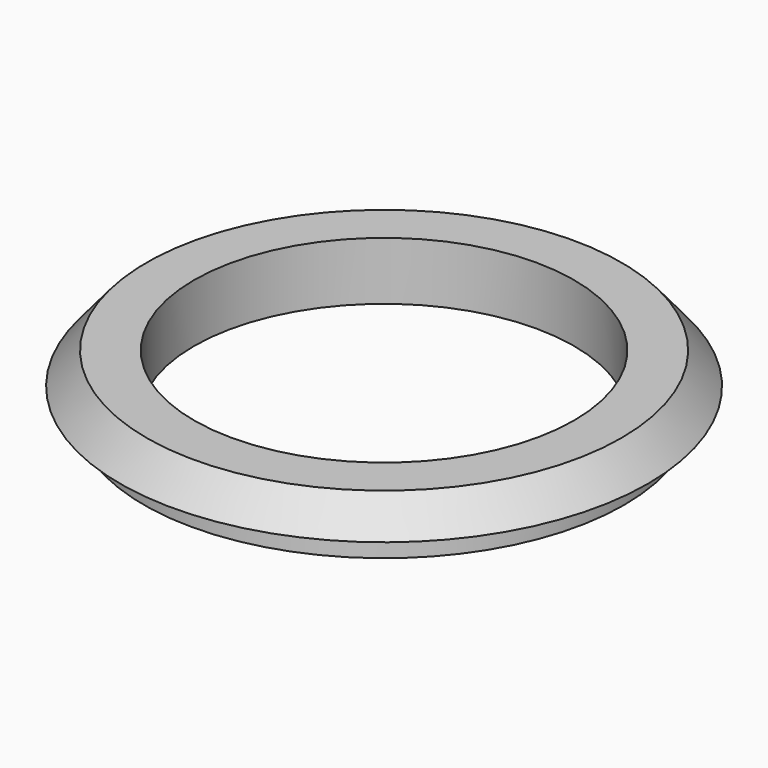
from build123d import *


with BuildPart() as part:
    # Sketch → Revolve (revolve)
    with BuildSketch(Plane.XZ):
        Polygon((36, 0), (45.5, 0), (45.5, 5), (50, 5), (44.983067, 11), (36, 11), align=None)
    revolve(axis=Axis((0, 0, 0), (0, 0, 1)))


solid = part.part
